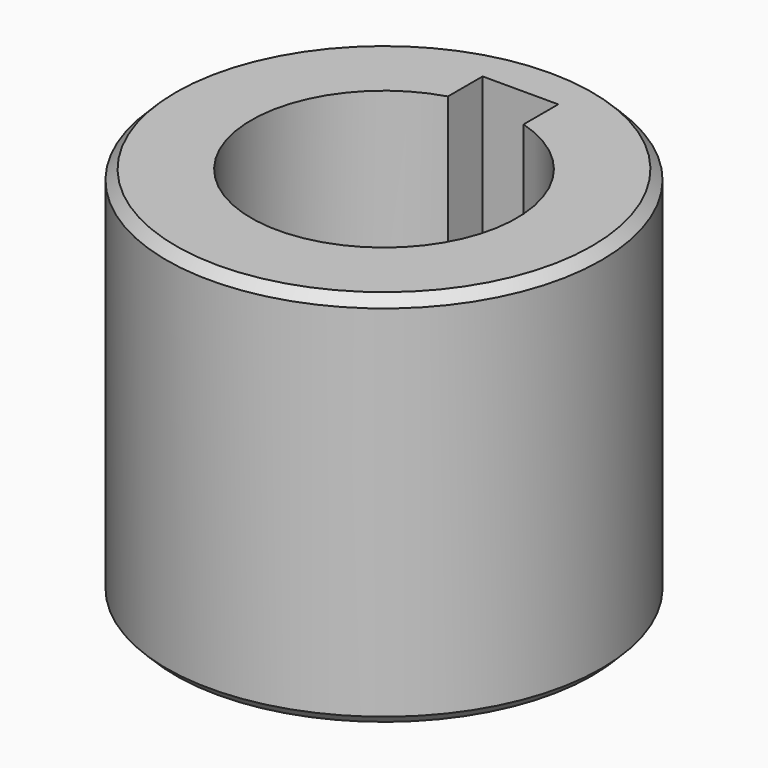
from build123d import *

# Parameters (mm, degrees)
F0_R     = 23
F0_R_2   = 14.03
F1_DEPTH = 40
F3_DEPTH = 40.001
F4_SIZE  = 1


with BuildPart() as f1:
    # F0 (on Top) → F1 (new body)
    with BuildSketch(Plane.XY):
        Circle(F0_R)
        Circle(F0_R_2, mode=Mode.SUBTRACT)
    extrude(amount=F1_DEPTH)

    # F2 (on face) → F3 (cut, through all)
    with BuildSketch(Plane.XY.offset(40)):
        with BuildLine():
            Line((4, 13.44771), (4, 18.03))
            Line((4, 18.03), (-4, 18.03))
            Line((-4, 18.03), (-4, 13.44771))
            ThreePointArc((-4, 13.44771), (0, 14.03), (4, 13.44771))
        make_face()
    extrude(amount=-F3_DEPTH, mode=Mode.SUBTRACT)

    # F4
    f4_edges = [f1.edges().sort_by_distance(p)[0] for p in [
        (-23, 0, 40),
        (-23, 0, 0),
    ]]
    chamfer(f4_edges, length=F4_SIZE)


solid = f1.part
